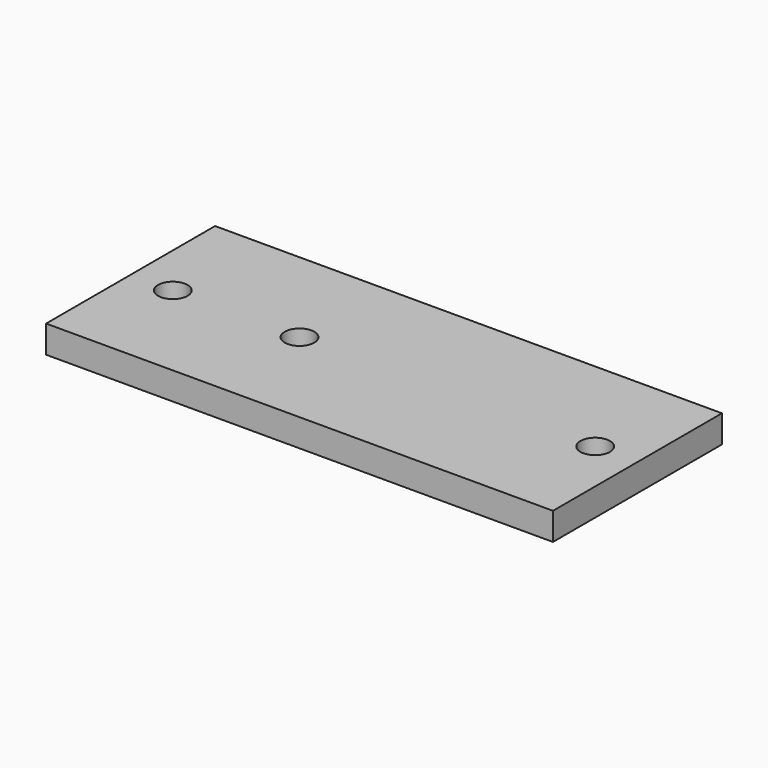
from build123d import *

# Parameters (mm, degrees)
F0_W     = 60
F0_H     = 25
F0_R     = 1.75
F1_DEPTH = 3.25


with BuildPart() as f1:
    # F0 (on Top) → F1 (new body)
    with BuildSketch(Plane.XY):
        with Locations((30, 12.5)):
            Rectangle(F0_W, F0_H)
        with Locations((5, 12.5)):
            Circle(F0_R, mode=Mode.SUBTRACT)
        with Locations((20, 12.5)):
            Circle(F0_R, mode=Mode.SUBTRACT)
        with Locations((55, 12.5)):
            Circle(F0_R, mode=Mode.SUBTRACT)
    extrude(amount=-F1_DEPTH)


solid = f1.part
